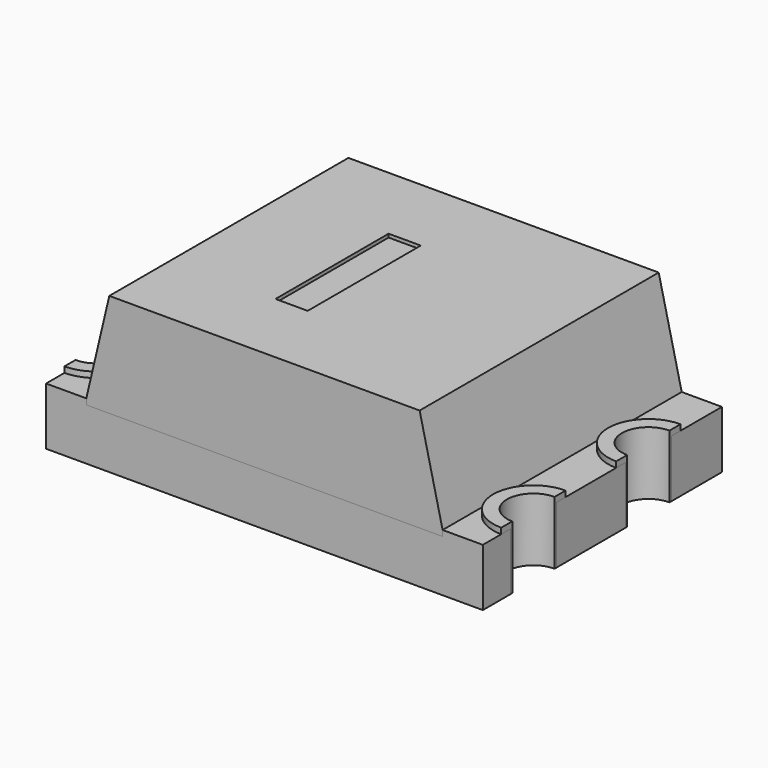
from build123d import *

# Parameters (mm, degrees)
PAD_DEPTH              = 0.5
BOX002_W               = 0.28
BOX002_H               = 1.23
BOX002_DEPTH           = 0.2
BOX003_W               = 1
BOX003_H               = 1
BOX003_DEPTH           = 0.7
CYLINDER001_R          = 0.23
CYLINDER001_DEPTH      = 0.55
CYLINDER_R             = 0.25
CYLINDER_DEPTH         = 0.55
CYLINDER002_R          = 0.25
CYLINDER002_DEPTH      = 0.05
CYLINDER003_R          = 0.35
CYLINDER003_DEPTH      = 0.05
BOX004_W               = 1
BOX004_H               = 1
BOX004_DEPTH           = 0.7
CYLINDER005_R          = 0.23
CYLINDER005_DEPTH      = 0.55
CYLINDER004_R          = 0.25
CYLINDER004_DEPTH      = 0.55
CYLINDER006_R          = 0.25
CYLINDER006_DEPTH      = 0.05
CYLINDER007_R          = 0.35
CYLINDER007_DEPTH      = 0.05
BOX005_W               = 1
BOX005_H               = 1
BOX005_DEPTH           = 0.7
CYLINDER009_R          = 0.23
CYLINDER009_DEPTH      = 0.55
CYLINDER008_R          = 0.25
CYLINDER008_DEPTH      = 0.55
CYLINDER010_R          = 0.25
CYLINDER010_DEPTH      = 0.05
CYLINDER011_R          = 0.35
CYLINDER011_DEPTH      = 0.05
CUT009_PLACEMENT_ANGLE = 180
BOX006_W               = 1
BOX006_H               = 1
BOX006_DEPTH           = 0.7
CYLINDER013_R          = 0.23
CYLINDER013_DEPTH      = 0.55
CYLINDER012_R          = 0.25
CYLINDER012_DEPTH      = 0.55
CYLINDER014_R          = 0.25
CYLINDER014_DEPTH      = 0.05
CYLINDER015_R          = 0.35
CYLINDER015_DEPTH      = 0.05
CUT012_PLACEMENT_ANGLE = 180
BOX001_W               = 0.28
BOX001_H               = 1.23
BOX001_DEPTH           = 0.2
BOX_W                  = 3.1
BOX_H                  = 2.6
BOX_DEPTH              = 0.9
CHAMFER_SIZE2          = 0.2
CHAMFER_SIZE           = 0.85
CHAMFER001_SIZE2       = 0.85
CHAMFER001_SIZE        = 0.2


with BuildPart() as body:
    # Sketch → Pad (new body)
    with BuildSketch(Plane.XY):
        with BuildLine():
            Line((-1.9, 1.3), (1.9, 1.3))
            Line((1.9, 1.3), (1.9, 0.75))
            ThreePointArc((1.9, 0.75), (1.65, 0.5), (1.9, 0.25))
            Line((1.9, 0.25), (1.9, -0.5))
            ThreePointArc((1.9, -0.5), (1.65, -0.75), (1.9, -1))
            Line((1.9, -1.3), (1.9, -1))
            Line((-1.9, -1.3), (1.9, -1.3))
            Line((-1.9, -1), (-1.9, -1.3))
            ThreePointArc((-1.9, -1), (-1.65, -0.75), (-1.9, -0.5))
            Line((-1.9, 0.5), (-1.9, -0.5))
            ThreePointArc((-1.9, 0.5), (-1.65, 0.75), (-1.9, 1))
            Line((-1.9, 1.3), (-1.9, 1))
        make_face()
    extrude(amount=PAD_DEPTH)


with BuildPart() as kub002:
    # Box002 → Box002 (new body)
    with BuildSketch(Plane(origin=(-0.44, -0.63, 1.12), x_dir=(1, 0, 0), z_dir=(0, 0, 1))):
        with Locations((0.14, 0.615)):
            Rectangle(BOX002_W, BOX002_H)
    extrude(amount=BOX002_DEPTH)


with BuildPart() as kub003:
    # Box003 → Box003 (new body)
    with BuildSketch(Plane(origin=(1.9, -1.2, 0), x_dir=(1, 0, 0), z_dir=(0, 0, 1))):
        with Locations((0.5, 0.5)):
            Rectangle(BOX003_W, BOX003_H)
    extrude(amount=BOX003_DEPTH)


with BuildPart() as cylinder001:
    # Cylinder001 → Cylinder001 (new body)
    with BuildSketch(Plane(origin=(1.9, -0.75, 0), x_dir=(1, 0, 0), z_dir=(0, 0, 1))):
        Circle(CYLINDER001_R)
    extrude(amount=CYLINDER001_DEPTH)


with BuildPart() as cut002:
    # Cylinder → Cylinder (new body)
    with BuildSketch(Plane(origin=(1.9, -0.75, 0), x_dir=(1, 0, 0), z_dir=(0, 0, 1))):
        Circle(CYLINDER_R)
    extrude(amount=CYLINDER_DEPTH)

    # Cut002: cut Cylinder001
    add(cylinder001.part, mode=Mode.SUBTRACT)


with BuildPart() as cylinder002:
    # Cylinder002 → Cylinder002 (new body)
    with BuildSketch(Plane(origin=(1.9, -0.75, 0.5), x_dir=(1, 0, 0), z_dir=(0, 0, 1))):
        Circle(CYLINDER002_R)
    extrude(amount=CYLINDER002_DEPTH)


with BuildPart() as pin001:
    # Cylinder003 → Cylinder003 (new body)
    with BuildSketch(Plane(origin=(1.9, -0.75, 0.5), x_dir=(1, 0, 0), z_dir=(0, 0, 1))):
        Circle(CYLINDER003_R)
    extrude(amount=CYLINDER003_DEPTH)

    # Cut001: cut Cylinder002
    add(cylinder002.part, mode=Mode.SUBTRACT)

    # Fusion001: union Cut002
    add(cut002.part)

    # Cut003: cut Kub003
    add(kub003.part, mode=Mode.SUBTRACT)


with BuildPart() as kub004:
    # Box004 → Box004 (new body)
    with BuildSketch(Plane(origin=(1.9, -1.2, 0), x_dir=(1, 0, 0), z_dir=(0, 0, 1))):
        with Locations((0.5, 0.5)):
            Rectangle(BOX004_W, BOX004_H)
    extrude(amount=BOX004_DEPTH)


with BuildPart() as cylinder005:
    # Cylinder005 → Cylinder005 (new body)
    with BuildSketch(Plane(origin=(1.9, -0.75, 0), x_dir=(1, 0, 0), z_dir=(0, 0, 1))):
        Circle(CYLINDER005_R)
    extrude(amount=CYLINDER005_DEPTH)


with BuildPart() as cut005:
    # Cylinder004 → Cylinder004 (new body)
    with BuildSketch(Plane(origin=(1.9, -0.75, 0), x_dir=(1, 0, 0), z_dir=(0, 0, 1))):
        Circle(CYLINDER004_R)
    extrude(amount=CYLINDER004_DEPTH)

    # Cut005: cut Cylinder005
    add(cylinder005.part, mode=Mode.SUBTRACT)


with BuildPart() as cylinder006:
    # Cylinder006 → Cylinder006 (new body)
    with BuildSketch(Plane(origin=(1.9, -0.75, 0.5), x_dir=(1, 0, 0), z_dir=(0, 0, 1))):
        Circle(CYLINDER006_R)
    extrude(amount=CYLINDER006_DEPTH)


with BuildPart() as pin002:
    # Cylinder007 → Cylinder007 (new body)
    with BuildSketch(Plane(origin=(1.9, -0.75, 0.5), x_dir=(1, 0, 0), z_dir=(0, 0, 1))):
        Circle(CYLINDER007_R)
    extrude(amount=CYLINDER007_DEPTH)

    # Cut004: cut Cylinder006
    add(cylinder006.part, mode=Mode.SUBTRACT)

    # Fusion002: union Cut005
    add(cut005.part)

    # Cut006: cut Kub004
    add(kub004.part, mode=Mode.SUBTRACT)


with BuildPart() as pin002_1:
    # Cut006 placement: moved
    add(pin002.part.moved(Location((0, 1.25, 0))))


with BuildPart() as kub005:
    # Box005 → Box005 (new body)
    with BuildSketch(Plane(origin=(1.9, -1.2, 0), x_dir=(1, 0, 0), z_dir=(0, 0, 1))):
        with Locations((0.5, 0.5)):
            Rectangle(BOX005_W, BOX005_H)
    extrude(amount=BOX005_DEPTH)


with BuildPart() as cylinder009:
    # Cylinder009 → Cylinder009 (new body)
    with BuildSketch(Plane(origin=(1.9, -0.75, 0), x_dir=(1, 0, 0), z_dir=(0, 0, 1))):
        Circle(CYLINDER009_R)
    extrude(amount=CYLINDER009_DEPTH)


with BuildPart() as cut008:
    # Cylinder008 → Cylinder008 (new body)
    with BuildSketch(Plane(origin=(1.9, -0.75, 0), x_dir=(1, 0, 0), z_dir=(0, 0, 1))):
        Circle(CYLINDER008_R)
    extrude(amount=CYLINDER008_DEPTH)

    # Cut008: cut Cylinder009
    add(cylinder009.part, mode=Mode.SUBTRACT)


with BuildPart() as cylinder010:
    # Cylinder010 → Cylinder010 (new body)
    with BuildSketch(Plane(origin=(1.9, -0.75, 0.5), x_dir=(1, 0, 0), z_dir=(0, 0, 1))):
        Circle(CYLINDER010_R)
    extrude(amount=CYLINDER010_DEPTH)


with BuildPart() as pin003:
    # Cylinder011 → Cylinder011 (new body)
    with BuildSketch(Plane(origin=(1.9, -0.75, 0.5), x_dir=(1, 0, 0), z_dir=(0, 0, 1))):
        Circle(CYLINDER011_R)
    extrude(amount=CYLINDER011_DEPTH)

    # Cut007: cut Cylinder010
    add(cylinder010.part, mode=Mode.SUBTRACT)

    # Fusion003: union Cut008
    add(cut008.part)

    # Cut009: cut Kub005
    add(kub005.part, mode=Mode.SUBTRACT)


with BuildPart() as pin003_1:
    # Cut009 placement: moved
    add(pin003.part.rotate(Axis((0, 0, 0), (0, 0, 1)), CUT009_PLACEMENT_ANGLE))


with BuildPart() as kub006:
    # Box006 → Box006 (new body)
    with BuildSketch(Plane(origin=(1.9, -1.2, 0), x_dir=(1, 0, 0), z_dir=(0, 0, 1))):
        with Locations((0.5, 0.5)):
            Rectangle(BOX006_W, BOX006_H)
    extrude(amount=BOX006_DEPTH)


with BuildPart() as cylinder013:
    # Cylinder013 → Cylinder013 (new body)
    with BuildSketch(Plane(origin=(1.9, -0.75, 0), x_dir=(1, 0, 0), z_dir=(0, 0, 1))):
        Circle(CYLINDER013_R)
    extrude(amount=CYLINDER013_DEPTH)


with BuildPart() as cut011:
    # Cylinder012 → Cylinder012 (new body)
    with BuildSketch(Plane(origin=(1.9, -0.75, 0), x_dir=(1, 0, 0), z_dir=(0, 0, 1))):
        Circle(CYLINDER012_R)
    extrude(amount=CYLINDER012_DEPTH)

    # Cut011: cut Cylinder013
    add(cylinder013.part, mode=Mode.SUBTRACT)


with BuildPart() as cylinder014:
    # Cylinder014 → Cylinder014 (new body)
    with BuildSketch(Plane(origin=(1.9, -0.75, 0.5), x_dir=(1, 0, 0), z_dir=(0, 0, 1))):
        Circle(CYLINDER014_R)
    extrude(amount=CYLINDER014_DEPTH)


with BuildPart() as pin004:
    # Cylinder015 → Cylinder015 (new body)
    with BuildSketch(Plane(origin=(1.9, -0.75, 0.5), x_dir=(1, 0, 0), z_dir=(0, 0, 1))):
        Circle(CYLINDER015_R)
    extrude(amount=CYLINDER015_DEPTH)

    # Cut010: cut Cylinder014
    add(cylinder014.part, mode=Mode.SUBTRACT)

    # Fusion004: union Cut011
    add(cut011.part)

    # Cut012: cut Kub006
    add(kub006.part, mode=Mode.SUBTRACT)


with BuildPart() as pin004_1:
    # Cut012 placement: moved
    add(pin004.part.moved(Location((0, -1.5, 0))).rotate(Axis((0, -1.5, 0), (0, 0, 1)), CUT012_PLACEMENT_ANGLE))


with BuildPart() as kub001:
    # Box001 → Box001 (new body)
    with BuildSketch(Plane(origin=(-0.44, -0.63, 1.3), x_dir=(1, 0, 0), z_dir=(0, 0, 1))):
        with Locations((0.14, 0.615)):
            Rectangle(BOX001_W, BOX001_H)
    extrude(amount=BOX001_DEPTH)


with BuildPart() as cut:
    # Box → Box (new body)
    with BuildSketch(Plane(origin=(-1.55, -1.3, 0.45), x_dir=(1, 0, 0), z_dir=(0, 0, 1))):
        with Locations((1.55, 1.3)):
            Rectangle(BOX_W, BOX_H)
    extrude(amount=BOX_DEPTH)

    # Chamfer
    chamfer_edges = [cut.edges().sort_by_distance(p)[0] for p in [
        (1.55, 0, 1.35),
    ]]
    chamfer_side = cut.faces().sort_by_distance((1.55, 0, 0.9))[0]
    chamfer(chamfer_edges, length=CHAMFER_SIZE, length2=CHAMFER_SIZE2, reference=chamfer_side)

    # Chamfer001
    chamfer001_edges = [cut.edges().sort_by_distance(p)[0] for p in [
        (-1.55, 0, 1.35),
    ]]
    chamfer001_side = cut.faces().sort_by_distance((-0.1, 0, 1.35))[0]
    chamfer(chamfer001_edges, length=CHAMFER001_SIZE, length2=CHAMFER001_SIZE2, reference=chamfer001_side)

    # Cut: cut Kub001
    add(kub001.part, mode=Mode.SUBTRACT)


solid = Compound([body.part, kub002.part, pin001.part, pin002_1.part, pin003_1.part, pin004_1.part, cut.part])
